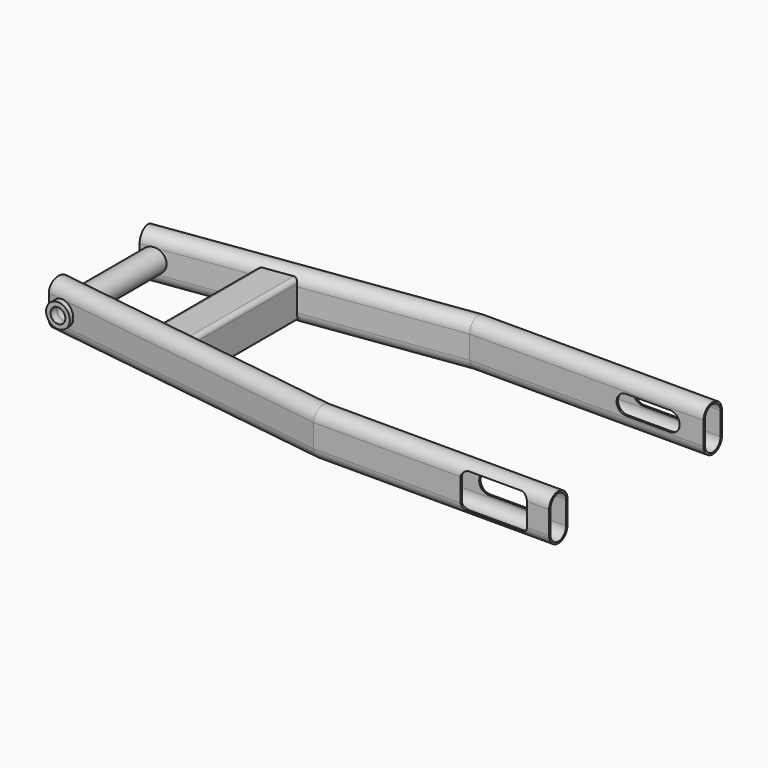
from build123d import *

# Parameters (mm, degrees)
F4_W      = 29.5
F4_H      = 13
F5_DEPTH  = 99
F6_DEPTH  = 86
F7_R      = 8
F7_R_2    = 5
F8_DEPTH  = 50
F9_W      = 1.6
F9_H      = 1.6
F9_W_2    = 21.8
F9_H_2    = 21.8
F10_DEPTH = 48
F11_R     = 3
F12_R     = 1.4
F15_DEPTH = 8
F16_R     = 5
F17_DEPTH = 122.751
F18_DEPTH = 10


with BuildPart() as f2:
    # F2: sweep along a path in F0
    with BuildLine(Plane.XY) as f2_path:
        Line((0, 65), (-158, 65))
        Line((-158, 65), (-358.3906463905, 36.8369312897))
    # F1 (on Right) → F2 (sweep)
    with BuildSketch(Plane.YZ):
        with BuildLine():
            ThreePointArc((72.75, 7.75), (65, 15.5), (57.25, 7.75))
            Line((57.25, 7.75), (57.25, -7.75))
            ThreePointArc((57.25, -7.75), (65, -15.5), (72.75, -7.75))
            Line((72.75, -7.75), (72.75, 7.75))
        make_face()
        with BuildLine():
            ThreePointArc((58.45, 7.75), (65, 14.3), (71.55, 7.75))
            Line((71.55, 7.75), (71.55, -7.75))
            ThreePointArc((71.55, -7.75), (65, -14.3), (58.45, -7.75))
            Line((58.45, -7.75), (58.45, 7.75))
        make_face(mode=Mode.SUBTRACT)
    sweep(path=f2_path.line, transition=Transition.RIGHT)


with BuildPart() as f3_1:
    # F3: instance of F2
    add(f2.part.mirror(Plane.XZ))

    # F4 (on Front) → F5 (cut)
    with BuildSketch(Plane.XZ):
        with Locations((-37.29, 0)):
            Rectangle(F4_W, F4_H)
        with BuildLine():
            Line((-52.04, -6.5), (-52.04, 6.5))
            ThreePointArc((-52.04, 6.5), (-58.54, 0), (-52.04, -6.5))
        make_face()
        with BuildLine():
            ThreePointArc((-22.54, -6.5), (-16.04, 0), (-22.54, 6.5))
            Line((-22.54, 6.5), (-22.54, -6.5))
        make_face()
    extrude(amount=F5_DEPTH, mode=Mode.SUBTRACT)

    # F14 (on face) → F15 (cut)
    with BuildSketch(Plane.XZ.offset(72.75)):
        with BuildLine():
            ThreePointArc((-14.76, 7), (-16.2244660941, 10.5355339059), (-19.76, 12))
            Line((-19.76, 12), (-54.76, 12))
            ThreePointArc((-54.76, 12), (-58.2955339059, 10.5355339059), (-59.76, 7))
            Line((-59.76, 7), (-59.76, -7))
            ThreePointArc((-59.76, -7), (-58.2955339059, -10.5355339059), (-54.76, -12))
            Line((-54.76, -12), (-19.76, -12))
            ThreePointArc((-19.76, -12), (-16.2244660941, -10.5355339059), (-14.76, -7))
            Line((-14.76, -7), (-14.76, 7))
        make_face()
    extrude(amount=-F15_DEPTH, mode=Mode.SUBTRACT)


with BuildPart() as f2_1:
    add(f2.part)

    # F4 (on Front) → F6 (cut)
    with BuildSketch(Plane.XZ):
        with Locations((-37.29, 0)):
            Rectangle(F4_W, F4_H)
        with BuildLine():
            Line((-52.04, -6.5), (-52.04, 6.5))
            ThreePointArc((-52.04, 6.5), (-58.54, 0), (-52.04, -6.5))
        make_face()
        with BuildLine():
            ThreePointArc((-22.54, -6.5), (-16.04, 0), (-22.54, 6.5))
            Line((-22.54, 6.5), (-22.54, -6.5))
        make_face()
    extrude(amount=-F6_DEPTH, mode=Mode.SUBTRACT)


with BuildPart() as f8:
    # F7 (on Front) → F8 (new body, symmetric)
    with BuildSketch(Plane.XZ):
        with Locations((-348.989237923, 0)):
            Circle(F7_R)
        with Locations((-348.989237923, 0)):
            Circle(F7_R_2, mode=Mode.SUBTRACT)
    extrude(amount=F8_DEPTH, both=True)


with BuildPart() as f10:
    # F9 (on Front) → F10 (new body, symmetric)
    with BuildSketch(Plane.XZ):
        with Locations((-286.359237923, 11.7)):
            Rectangle(F9_W, F9_H)
        with Locations((-274.659237923, 11.7)):
            Rectangle(F9_W_2, F9_H)
        with Locations((-286.359237923, 0)):
            Rectangle(F9_W, F9_H_2)
        with Locations((-262.959237923, 11.7)):
            Rectangle(F9_W, F9_H)
        with Locations((-286.359237923, -11.7)):
            Rectangle(F9_W, F9_H)
        with Locations((-262.959237923, 0)):
            Rectangle(F9_W, F9_H_2)
        with Locations((-274.659237923, -11.7)):
            Rectangle(F9_W_2, F9_H)
        with Locations((-262.959237923, -11.7)):
            Rectangle(F9_W, F9_H)
    extrude(amount=F10_DEPTH, both=True)

    # F11
    f11_edges = [f10.edges().sort_by_distance(p)[0] for p in [
        (-262.159238, 0, 12.5),
        (-287.159238, 0, 12.5),
    ]]
    fillet(f11_edges, radius=F11_R)

    # F12
    f12_edges = [f10.edges().sort_by_distance(p)[0] for p in [
        (-262.159238, 0, -12.5),
        (-287.159238, 0, -12.5),
    ]]
    fillet(f12_edges, radius=F12_R)


with BuildPart() as f17_tool:
    # F16 (on face) → F17 (new body, through all)
    with BuildSketch(Plane.XZ.offset(50)):
        with Locations((-348.989237923, 0)):
            Circle(F16_R)
    extrude(amount=-F17_DEPTH)


with BuildPart() as f2_2:
    add(f2_1.part)

    # F17: cut by f17_tool
    add(f17_tool.part, mode=Mode.SUBTRACT)

    # F14 (on face) → F18 (cut)
    with BuildSketch(Plane.XZ.offset(72.75)):
        with BuildLine():
            ThreePointArc((-14.76, 7), (-16.2244660941, 10.5355339059), (-19.76, 12))
            Line((-19.76, 12), (-54.76, 12))
            ThreePointArc((-54.76, 12), (-58.2955339059, 10.5355339059), (-59.76, 7))
            Line((-59.76, 7), (-59.76, -7))
            ThreePointArc((-59.76, -7), (-58.2955339059, -10.5355339059), (-54.76, -12))
            Line((-54.76, -12), (-19.76, -12))
            ThreePointArc((-19.76, -12), (-16.2244660941, -10.5355339059), (-14.76, -7))
            Line((-14.76, -7), (-14.76, 7))
        make_face()
    extrude(amount=-F18_DEPTH, mode=Mode.SUBTRACT)


with BuildPart() as f3_1_1:
    add(f3_1.part)

    # F17: cut by f17_tool
    add(f17_tool.part, mode=Mode.SUBTRACT)


solid = Compound([f8.part, f10.part, f2_2.part, f3_1_1.part])
